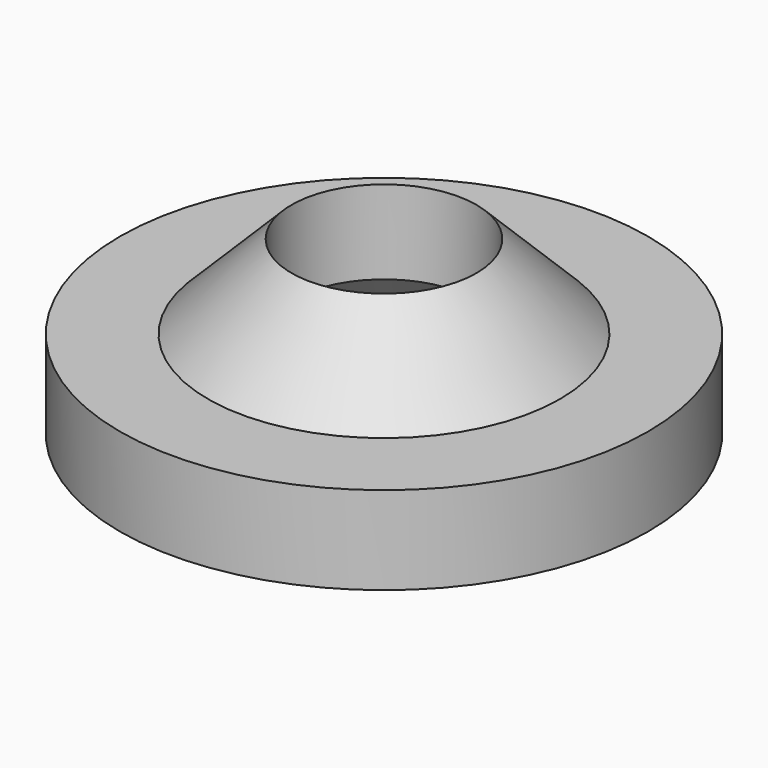
from build123d import *

# Parameters (mm, degrees)
SKETCH037_R         = 6
SKETCH037_R_2       = 2.1
PAD018_DEPTH        = 2
HOLE009_D           = 4.2
HOLE009_DEPTH       = 25
HOLE009_CSINK_D     = 8.2
HOLE009_CSINK_ANGLE = 90


with BuildPart() as part:
    # Sketch037 → Pad018 (new body)
    with BuildSketch(Plane.XY):
        Circle(SKETCH037_R)
        Circle(SKETCH037_R_2, mode=Mode.SUBTRACT)
    extrude(amount=PAD018_DEPTH)

    # Sketch039 (on DatumPlane) → Revolution (revolve)
    with BuildSketch(Plane(origin=(0, 0, 2), x_dir=(1, 0, 0), z_dir=(0, -1, 0))):
        Polygon((2.1, 1.9), (2.1, 0), (4, 0), align=None)
    revolve(axis=Axis((0, 0, 2), (0, 0, 1)))

    # Hole009
    with Locations(Plane(origin=(0, 0, 0), x_dir=(1, 0, 0), z_dir=(0, 0, -1))):
        with Locations((0, 0)):
            CounterSinkHole(HOLE009_D / 2, HOLE009_CSINK_D / 2, depth=HOLE009_DEPTH, counter_sink_angle=HOLE009_CSINK_ANGLE)


solid = part.part
